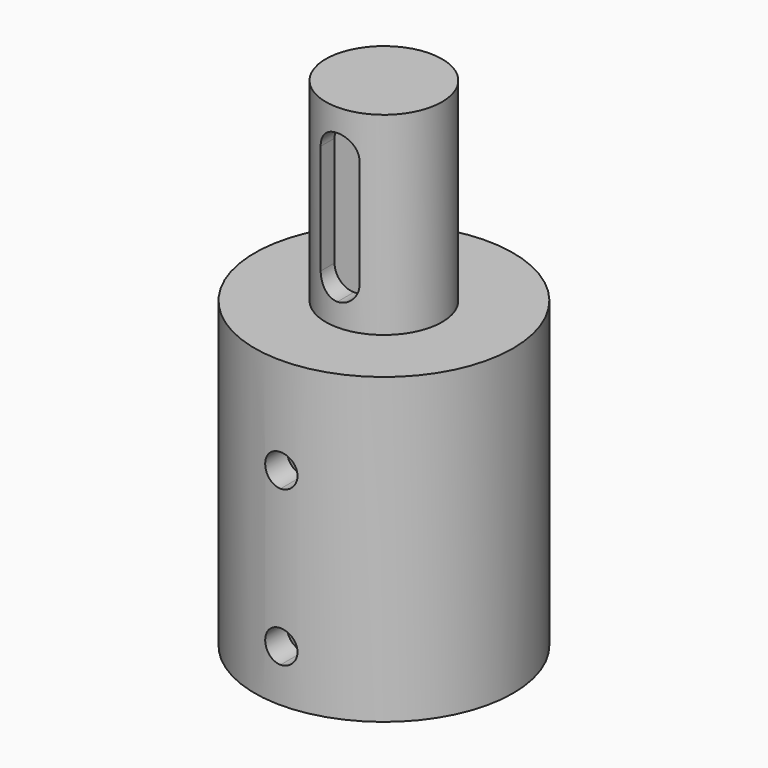
from build123d import *

# Parameters (mm, degrees)
F0_R          = 20
F0_R_2        = 12.7
F0_R_3        = 9
F1_DEPTH      = 47
F2_DEPTH      = 77
F3_DEPTH      = 40
F5_DEPTH      = 15.5956
F7_START      = 5.8
F7_DEPTH      = 3.2
F9_DEPTH      = 0.8
F9_DEPTH_BACK = 25


with BuildPart() as f1:
    # F0 (on Top) → F1 (new body)
    with BuildSketch(Plane.XY):
        Circle(F0_R)
        Circle(F0_R_2, mode=Mode.SUBTRACT)
        Circle(F0_R_2)
        Circle(F0_R_3, mode=Mode.SUBTRACT)
    extrude(amount=F1_DEPTH)

    # F0 (on Top) → F2 (join)
    with BuildSketch(Plane.XY):
        Circle(F0_R_3)
    extrude(amount=F2_DEPTH)

    # F0 (on Top) → F3 (cut)
    with BuildSketch(Plane.XY):
        Circle(F0_R_2)
        Circle(F0_R_3, mode=Mode.SUBTRACT)
        Circle(F0_R_3)
    extrude(amount=F3_DEPTH, mode=Mode.SUBTRACT)

    # F4 (on Front) → F5 (cut)
    with BuildSketch(Plane.XZ):
        Polygon((-3.175, 0), (0, 0), (3.175, 0), (3.175, 40), (-3.175, 40), align=None)
    extrude(amount=F5_DEPTH, mode=Mode.SUBTRACT)

    # F6 (on Front) → F7 (cut)
    with BuildSketch(Plane.XZ.offset(F7_START)):
        with BuildLine():
            Line((3, 53.5), (3, 70.5))
            ThreePointArc((3, 70.5), (0, 67.5), (-3, 70.5))
            Line((-3, 70.5), (-3, 53.5))
            ThreePointArc((-3, 53.5), (0, 56.5), (3, 53.5))
        make_face()
        with BuildLine():
            ThreePointArc((0, 50.5), (2.1213203436, 51.3786796564), (3, 53.5))
            ThreePointArc((3, 53.5), (0, 56.5), (-3, 53.5))
            ThreePointArc((-3, 53.5), (-2.1213203436, 51.3786796564), (0, 50.5))
        make_face()
        with BuildLine():
            ThreePointArc((3, 70.5), (2.1213203436, 72.6213203436), (0, 73.5))
            ThreePointArc((0, 73.5), (-2.1213203436, 72.6213203436), (-3, 70.5))
            ThreePointArc((-3, 70.5), (0, 67.5), (3, 70.5))
        make_face()
    extrude(amount=F7_DEPTH, mode=Mode.SUBTRACT)

    # F8 (on Front) → F9 (cut, two sides)
    with BuildSketch(Plane.XZ) as f9_sk:
        with BuildLine():
            ThreePointArc((0, 5.5), (1.767766953, 6.232233047), (2.5, 8))
            ThreePointArc((2.5, 8), (1.767766953, 9.767766953), (0, 10.5))
            Line((0, 10.5), (0, 8))
            Line((0, 8), (0, 5.5))
        make_face()
        with BuildLine():
            ThreePointArc((2.5, 32), (-1.767766953, 33.767766953), (0, 29.5))
            ThreePointArc((0, 29.5), (1.767766953, 30.232233047), (2.5, 32))
        make_face()
        with BuildLine():
            Line((0, 8), (0, 10.5))
            ThreePointArc((0, 10.5), (-2.5, 8), (0, 5.5))
            Line((0, 5.5), (0, 8))
        make_face()
    extrude(amount=-F9_DEPTH, mode=Mode.SUBTRACT)
    extrude(f9_sk.sketch, amount=F9_DEPTH_BACK, mode=Mode.SUBTRACT)


solid = f1.part
